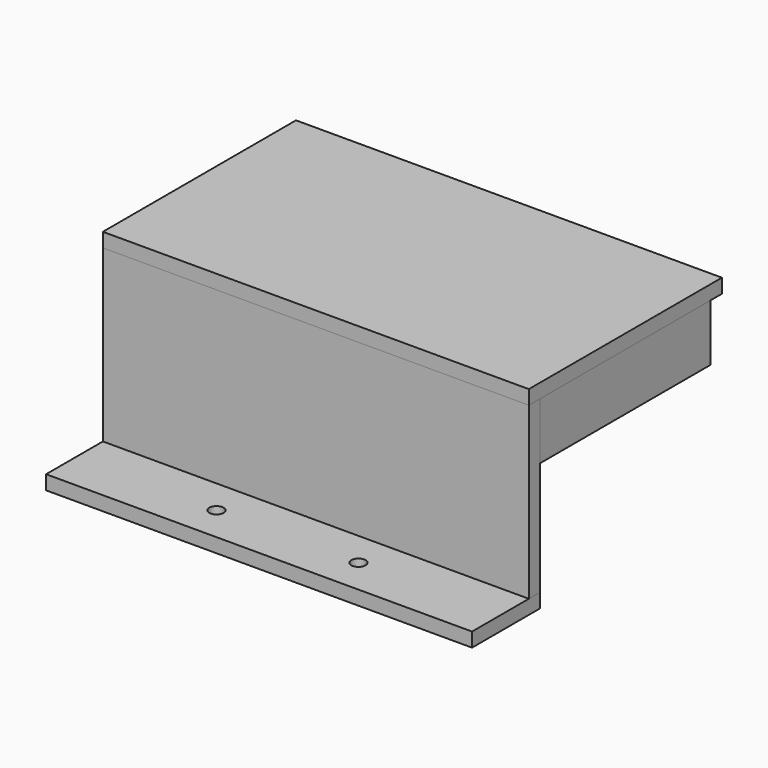
from build123d import *

# Parameters (mm, degrees)
F0_W      = 76.2
F0_H      = 30.48
F1_DEPTH  = 2.54
F2_W      = 43.18
F2_H      = 10.16
F3_DEPTH  = 2.54
F5_W      = 2.54
F5_H      = 10.16
F6_DEPTH  = 38.1
F7_W      = 76.2
F7_H      = 43.18
F8_DEPTH  = 2.54
F9_W      = 76.2
F9_H      = 15.24
F10_DEPTH = 2.54
F11_R     = 1.27
F12_DEPTH = 2.54
F13_DEPTH = 2.54


with BuildPart() as f1:
    # F0 (on Front) → F1 (new body)
    with BuildSketch(Plane.XZ):
        Rectangle(F0_W, F0_H)
    extrude(amount=F1_DEPTH)

    # F11 (on face) → F13 (cut)
    with BuildSketch(Plane.XY.offset(-15.24)):
        with Locations((-12.7, -8.89)):
            Circle(F11_R)
        with Locations((12.7, -8.89)):
            Circle(F11_R)
    extrude(amount=-F13_DEPTH, mode=Mode.SUBTRACT)


with BuildPart() as f3:
    # F2 (on Right) → F3 (new body)
    with BuildSketch(Plane.YZ):
        Rectangle(F2_W, F2_H)
    extrude(amount=F3_DEPTH)


with BuildPart() as f6:
    # F5 (on face) → F6 (new body)
    with BuildSketch(Plane(origin=(0, 0, 0), x_dir=(-1, 0, 0), z_dir=(0, 1, 0))):
        with Locations((-36.83, 10.16)):
            Rectangle(F5_W, F5_H)
    extrude(amount=F6_DEPTH)


with BuildPart() as f8:
    # F7 (on face) → F8 (new body)
    with BuildSketch(Plane.XY.offset(15.24)):
        with Locations((0, 19.05)):
            Rectangle(F7_W, F7_H)
    extrude(amount=F8_DEPTH)


with BuildPart() as f10:
    # F9 (on face) → F10 (new body)
    with BuildSketch(Plane(origin=(0, 0, -15.24), x_dir=(1, 0, 0), z_dir=(0, 0, -1))):
        with Locations((0, 7.62)):
            Rectangle(F9_W, F9_H)
    extrude(amount=F10_DEPTH)

    # F11 (on face) → F12 (cut)
    with BuildSketch(Plane.XY.offset(-15.24)):
        with Locations((-12.7, -8.89)):
            Circle(F11_R)
        with Locations((12.7, -8.89)):
            Circle(F11_R)
    extrude(amount=-F12_DEPTH, mode=Mode.SUBTRACT)


solid = Compound([f1.part, f6.part, f8.part, f10.part])
